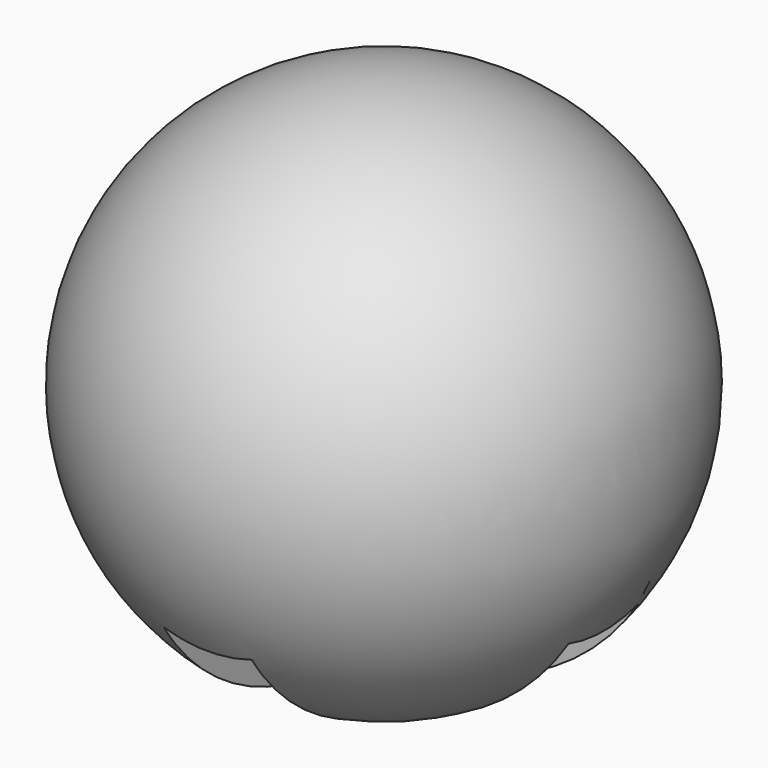
from build123d import *

# Parameters (mm, degrees)
F2_W     = 3.175
F2_H     = 6.35
F2_W_2   = 6.35
F2_H_2   = 3.175
F3_DEPTH = 12.7


with BuildPart() as f1:
    # F0 (on Top) → F1 (revolve)
    with BuildSketch(Plane.XY):
        with BuildLine():
            ThreePointArc((0, -9.525), (9.525, 0), (0, 9.525))
            Line((0, 9.525), (0, -9.525))
        make_face()
    revolve(axis=Axis((0, 0, 0), (0, -1, 0)))

    # F2 (on Top) → F3 (cut)
    with BuildSketch(Plane.XY):
        with Locations((0, 4.7625)):
            Rectangle(F2_W, F2_H)
        with Locations((-4.7625, 0)):
            Rectangle(F2_W_2, F2_H_2)
        Rectangle(F2_W, F2_H_2)
        with Locations((4.7625, 0)):
            Rectangle(F2_W_2, F2_H_2)
        with Locations((0, -4.7625)):
            Rectangle(F2_W, F2_H)
    extrude(amount=-F3_DEPTH, mode=Mode.SUBTRACT)


solid = f1.part
